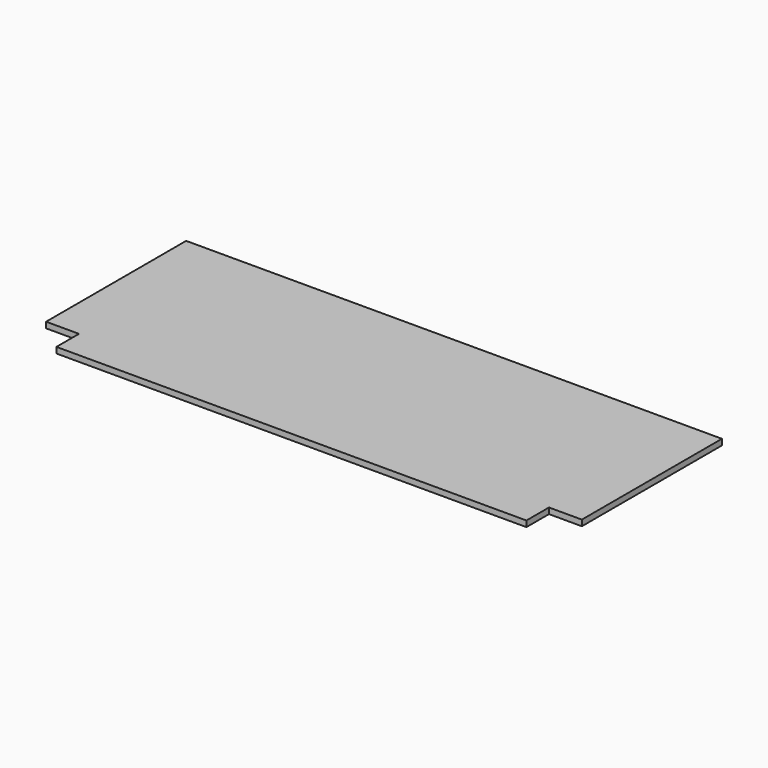
from build123d import *

# Parameters (mm, degrees)
F0_W     = 1447.8
F0_H     = 666.75
F1_DEPTH = 15.875
F2_W     = 88.9
F2_H     = 76.2
F3_DEPTH = 15.876
F4_W     = 1270
F4_H     = 76.2
F5_DEPTH = 15.876


with BuildPart() as f1:
    # F0 (on Top) → F1 (new body)
    with BuildSketch(Plane.XY):
        Rectangle(F0_W, F0_H)
    extrude(amount=F1_DEPTH)

    # F2 (on face) → F3 (cut, through all)
    with BuildSketch(Plane.XY.offset(15.875)):
        with Locations((-679.45, -295.275)):
            Rectangle(F2_W, F2_H)
        with Locations((-679.45, 295.275)):
            Rectangle(F2_W, F2_H)
        with Locations((679.45, 295.275)):
            Rectangle(F2_W, F2_H)
        with Locations((679.45, -295.275)):
            Rectangle(F2_W, F2_H)
    extrude(amount=-F3_DEPTH, mode=Mode.SUBTRACT)

    # F4 (on face) → F5 (cut, through all)
    with BuildSketch(Plane.XY.offset(15.875)):
        Polygon((-723.9, 257.175), (-723.9, 215.9), (723.9, 215.9), (723.9, 257.175), (635, 257.175), (-635, 257.175), align=None)
        with Locations((0, 295.275)):
            Rectangle(F4_W, F4_H)
    extrude(amount=-F5_DEPTH, mode=Mode.SUBTRACT)


solid = f1.part
